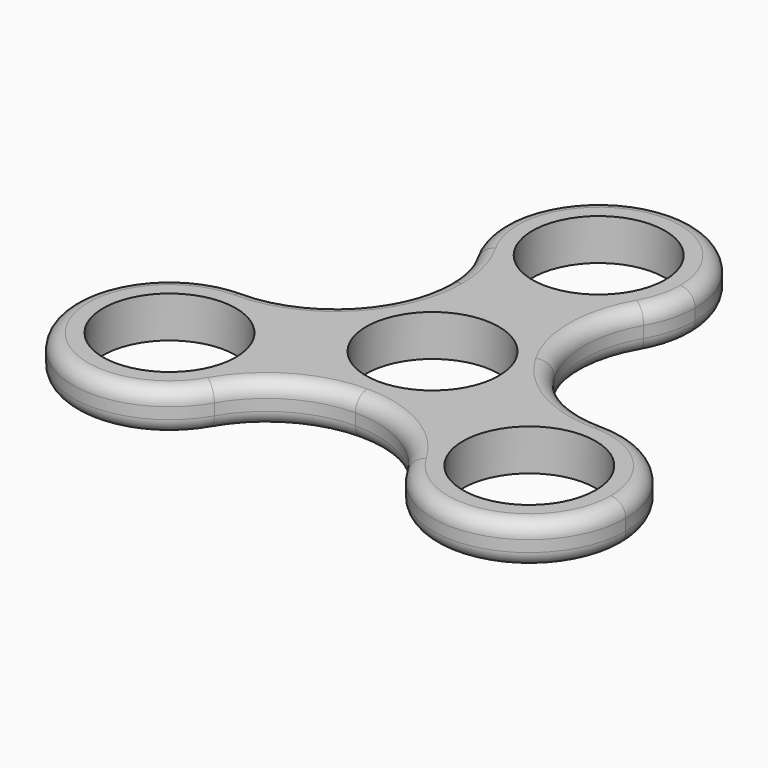
from build123d import *

# Parameters (mm, degrees)
F0_R     = 11.2522
F1_DEPTH = 7.0104
F2_R     = 2.54


with BuildPart() as f1:
    # F0 (on Top) → F1 (new body)
    with BuildSketch(Plane.XY):
        with BuildLine():
            ThreePointArc((14.1441000791, 27.0382999643), (15.7756937748, 30.9773155717), (16.3322, 35.2044))
            ThreePointArc((16.3322, 35.2044), (-4.2270843265, 50.9800938021), (-14.1441001845, 27.0383001469))
            ThreePointArc((-14.1441001845, 27.0383001469), (-1.054e-07, 18.8722), (14.1441000791, 27.0382999643))
        make_face()
        with Locations((0, 35.2044)):
            Circle(F0_R, mode=Mode.SUBTRACT)
        with BuildLine():
            ThreePointArc((16.3322, 0), (15.7756937956, 4.2270843506), (14.1441001595, 8.1660998964))
            ThreePointArc((14.1441001595, 8.1660998964), (-1.04e-08, 16.3322), (-14.1441001699, 8.1660998784))
            ThreePointArc((-14.1441001699, 8.1660998784), (-14.1441000479, -8.1661000896), (6.65e-08, -16.3322))
            ThreePointArc((6.65e-08, -16.3322), (11.5486093952, -11.5486093482), (16.3322, 0))
        make_face()
        Circle(F0_R, mode=Mode.SUBTRACT)
        with BuildLine():
            ThreePointArc((-14.155704725, -17.6022), (-18.9392953914, -6.0535905902), (-30.4879048326, -1.27))
            ThreePointArc((-30.4879048326, -1.27), (-44.6320047919, -25.7683000569), (-16.3438046135, -25.7682999795))
            ThreePointArc((-16.3438046135, -25.7682999795), (-14.7122109418, -21.829284397), (-14.155704725, -17.6022))
        make_face()
        with Locations((-30.487904725, -17.6022)):
            Circle(F0_R, mode=Mode.SUBTRACT)
        with BuildLine():
            ThreePointArc((-14.1441001699, 8.1660998784), (-21.0518048324, 1.2583953127), (-30.4879048326, -1.27))
            ThreePointArc((-30.4879048326, -1.27), (-18.9392953914, -6.0535905902), (-14.155704725, -17.6022))
            ThreePointArc((-14.155704725, -17.6022), (-14.7122109418, -21.829284397), (-16.3438046135, -25.7682999795))
            ThreePointArc((-16.3438046135, -25.7682999795), (-9.436099961, -18.8605953522), (6.65e-08, -16.3322))
            ThreePointArc((6.65e-08, -16.3322), (-14.1441000479, -8.1661000896), (-14.1441001699, 8.1660998784))
        make_face()
        with BuildLine():
            ThreePointArc((14.1441000791, 27.0382999643), (-1.054e-07, 18.8722), (-14.1441001845, 27.0383001469))
            ThreePointArc((-14.1441001845, 27.0383001469), (-12.258759368, 22.4866848649), (-11.615704725, 17.6022))
            ThreePointArc((-11.615704725, 17.6022), (-12.2587593643, 12.7177151492), (-14.1441001699, 8.1660998784))
            ThreePointArc((-14.1441001699, 8.1660998784), (-1.04e-08, 16.3322), (14.1441001595, 8.1660998964))
            ThreePointArc((14.1441001595, 8.1660998964), (11.615704725, 17.6021999196), (14.1441000791, 27.0382999643))
        make_face()
        with BuildLine():
            ThreePointArc((30.4879046173, -1.27), (21.0518047302, 1.2583953717), (14.1441001595, 8.1660998964))
            ThreePointArc((14.1441001595, 8.1660998964), (15.7756937956, 4.2270843506), (16.3322, 0))
            ThreePointArc((16.3322, 0), (11.5486093952, -11.5486093482), (6.65e-08, -16.3322))
            ThreePointArc((6.65e-08, -16.3322), (9.4360998988, -18.8605953163), (16.3438044752, -25.76829974))
            ThreePointArc((16.3438044752, -25.76829974), (16.3438046734, -9.4360999166), (30.4879046173, -1.27))
        make_face()
        with BuildLine():
            ThreePointArc((46.820104725, -17.6022), (42.0365140586, -6.0535905902), (30.4879046173, -1.27))
            ThreePointArc((30.4879046173, -1.27), (16.3438046734, -9.4360999166), (16.3438044752, -25.76829974))
            ThreePointArc((16.3438044752, -25.76829974), (34.7149889884, -33.377893819), (46.820104725, -17.6022))
        make_face()
        with Locations((30.487904725, -17.6022)):
            Circle(F0_R, mode=Mode.SUBTRACT)
    extrude(amount=F1_DEPTH)

    # F2
    f2_edges = [f1.edges().sort_by_distance(p)[0] for p in [
        (0, 51.5366, 7.0104),
        (44.632005, -25.7683, 0),
        (14.1441, 8.1661, 0),
        (14.1441, 8.1661, 7.0104),
    ]]
    fillet(f2_edges, radius=F2_R)


solid = f1.part
